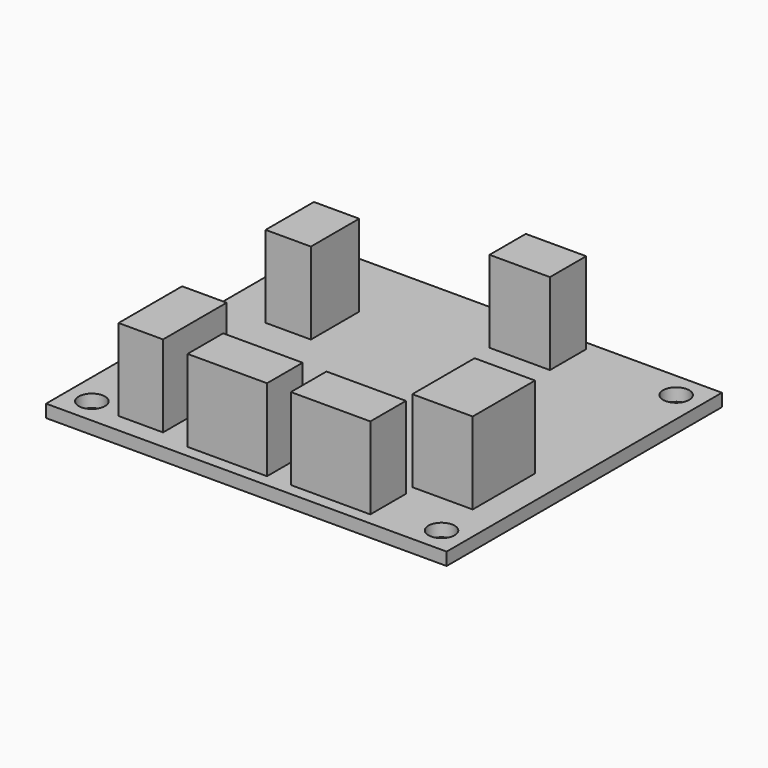
from build123d import *

# Parameters (mm, degrees)
SKETCH_W      = 50.4
SKETCH_H      = 43.3
PAD_DEPTH     = 1.6
SKETCH001_R   = 1.65
HOLE_DEPTH    = 1.601
SKETCH002_W   = 10
SKETCH002_H   = 5.6
SKETCH002_W_2 = 5.6
SKETCH002_H_2 = 10
SKETCH002_W_3 = 5.7
SKETCH002_H_3 = 7.6
SKETCH002_W_4 = 7.6
SKETCH002_H_4 = 5.7
SKETCH002_H_5 = 9.8
PAD001_DEPTH  = 10.3


with BuildPart() as part:
    # Sketch → Pad (new body)
    with BuildSketch(Plane.XY):
        Rectangle(SKETCH_W, SKETCH_H)
    extrude(amount=PAD_DEPTH)

    # Sketch001 (on Face6 of Pad) → Hole (cut, through all)
    with BuildSketch(Plane.XY.offset(1.6)):
        with Locations((-22, 18.45)):
            Circle(SKETCH001_R)
        with Locations((22, 18.45)):
            Circle(SKETCH001_R)
        with Locations((-22, -18.45)):
            Circle(SKETCH001_R)
        with Locations((22, -18.45)):
            Circle(SKETCH001_R)
    extrude(amount=-HOLE_DEPTH, mode=Mode.SUBTRACT)

    # Sketch002 (on Face5 of Hole) → Pad001 (join)
    with BuildSketch(Plane.XY.offset(1.6)):
        with Locations((9.4, -17.35)):
            Rectangle(SKETCH002_W, SKETCH002_H)
        with Locations((-3.6, -17.35)):
            Rectangle(SKETCH002_W, SKETCH002_H)
        with Locations((-15.2, -14.25)):
            Rectangle(SKETCH002_W_2, SKETCH002_H_2)
        with Locations((-16.25, 9.05)):
            Rectangle(SKETCH002_W_3, SKETCH002_H_3)
        with Locations((5.2, 17.7)):
            Rectangle(SKETCH002_W_4, SKETCH002_H_4)
        with Locations((17.8, -8.15)):
            Rectangle(SKETCH002_W_4, SKETCH002_H_5)
    extrude(amount=PAD001_DEPTH)


solid = part.part
